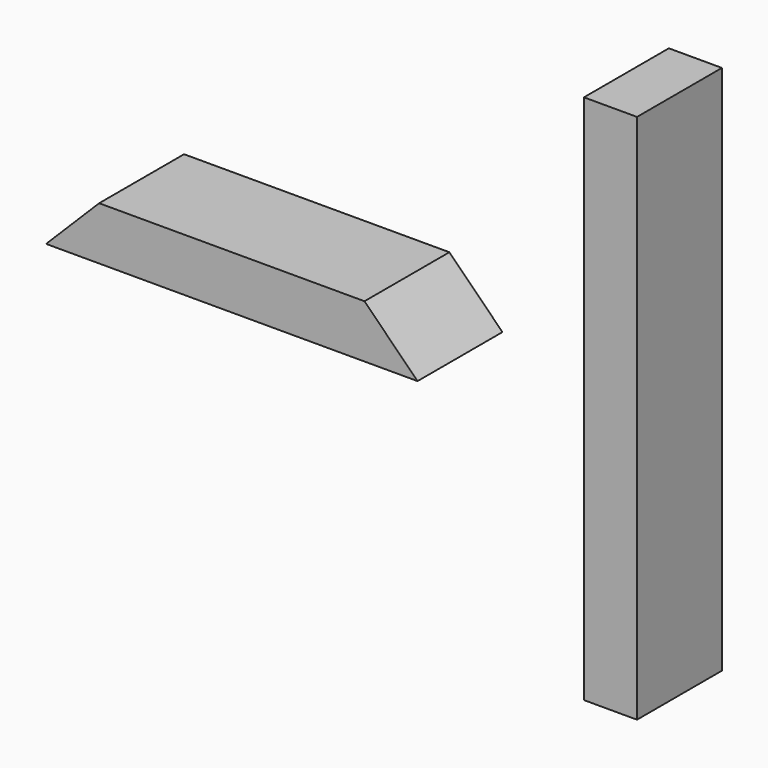
from build123d import *

# Parameters (mm, degrees)
F2_DEPTH = 50.8
F0_W     = 50.8
F0_H     = 508
F3_DEPTH = 50.8


with BuildPart() as f2:
    # F1 (on Front) → F2 (new body, symmetric)
    with BuildSketch(Plane.XZ):
        Polygon((-489.491833, 13.821288), (-540.291833, -36.978712), (-184.691833, -36.978712), (-235.491833, 13.821288), align=None)
    extrude(amount=F2_DEPTH, both=True)


with BuildPart() as f3:
    # F0 (on Front) → F3 (new body, symmetric)
    with BuildSketch(Plane.XZ):
        Rectangle(F0_W, F0_H)
    extrude(amount=F3_DEPTH, both=True)


solid = Compound([f2.part, f3.part])
